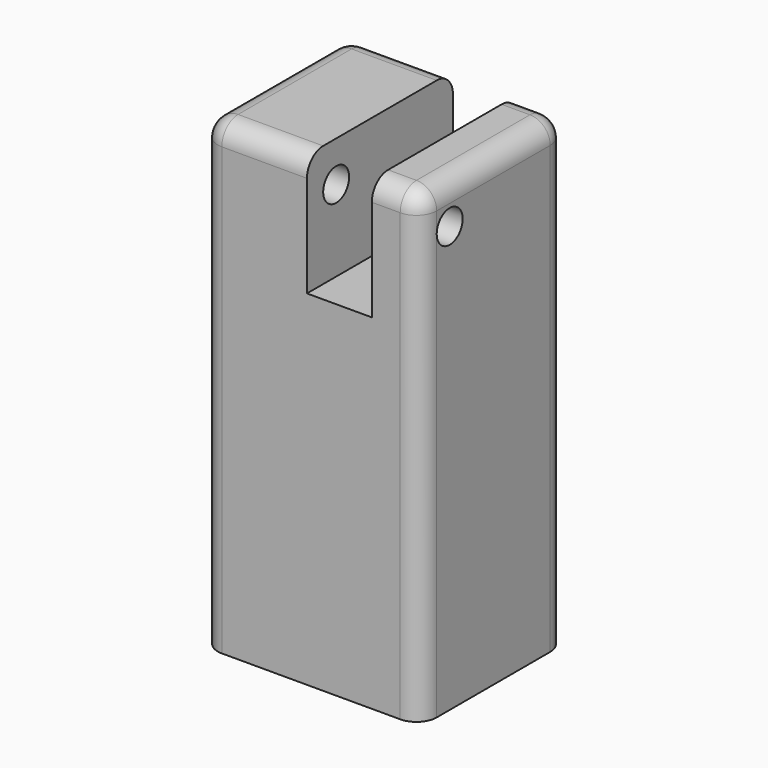
from build123d import *

# Parameters (mm, degrees)
F0_W          = 54
F0_H          = 45
F0_W_2        = 44
F0_H_2        = 35
F1_DEPTH      = 40
F2_DEPTH      = 5
F3_W          = 6
F3_H          = 45
F4_DEPTH      = 70
F6_R          = 5
F7_DEPTH      = 40
F5_R          = 4
F8_DEPTH      = 48.001
F8_DEPTH_BACK = 25
F9_DEPTH      = 20
F10_DEPTH     = 6


with BuildPart() as f1:
    # F0 (on Top) → F1 (new body)
    with BuildSketch(Plane.XY):
        Rectangle(F0_W, F0_H)
        Rectangle(F0_W_2, F0_H_2, mode=Mode.SUBTRACT)
    extrude(amount=-F1_DEPTH)

    # F0 (on Top) → F2 (join)
    with BuildSketch(Plane.XY):
        Rectangle(F0_W, F0_H)
        Rectangle(F0_W_2, F0_H_2, mode=Mode.SUBTRACT)
        Rectangle(F0_W_2, F0_H_2)
    extrude(amount=F2_DEPTH)

    # F3 (on face) → F4 (join)
    with BuildSketch(Plane.XY.offset(5)):
        with Locations((24, 0)):
            Rectangle(F3_W, F3_H)
        with Locations((-24, 0)):
            Rectangle(F3_W, F3_H)
    extrude(amount=F4_DEPTH)

    # F6
    f6_edges = [f1.edges().sort_by_distance(p)[0] for p in [
        (-24, -22.5, 75),
        (-24, 22.5, 75),
        (24, -22.5, 75),
        (24, 22.5, 75),
        (27, -22.5, 17.5),
        (27, 0, 75),
        (27, 22.5, 17.5),
        (-27, -22.5, 17.5),
        (-27, 22.5, 17.5),
        (-27, 0, 75),
    ]]
    fillet(f6_edges, radius=F6_R)

    # F7 (add): a face of the model
    f7_faces = [f1.faces().sort_by_distance(p)[0] for p in [
        (0, 0, 5),
    ]]
    extrude(f7_faces, amount=F7_DEPTH)

    # F5 (on face) → F8 (cut, two sides)
    with BuildSketch(Plane.YZ.offset(-21)) as f8_sk:
        with Locations((-13.5, 65)):
            Circle(F5_R)
    extrude(amount=F8_DEPTH, mode=Mode.SUBTRACT)
    extrude(f8_sk.sketch, amount=-F8_DEPTH_BACK, mode=Mode.SUBTRACT)

    # F9 (add): a face of the model
    f9_faces = [f1.faces().sort_by_distance(p)[0] for p in [
        (-21, 0.526440406, 59.6894541328),
    ]]
    extrude(f9_faces, amount=F9_DEPTH)

    # F10 (add): a face of the model
    f10_faces = [f1.faces().sort_by_distance(p)[0] for p in [
        (21, 0.526440406, 59.6894541328),
    ]]
    extrude(f10_faces, amount=F10_DEPTH)


solid = f1.part
